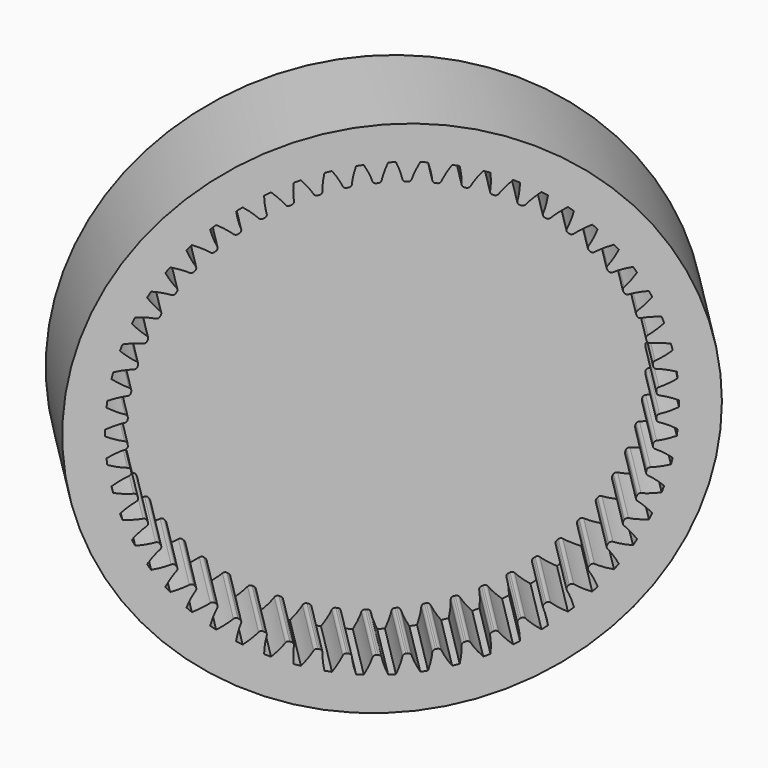
from build123d import *

# Parameters (mm, degrees)
SKETCH032_R             = 20
PAD018_DEPTH            = 6
POCKET010_DEPTH         = 6.001
SKETCH034_R             = 20
PAD019_DEPTH            = 3
SKETCH073_R             = 1.95
PAD049_DEPTH            = 12
BODY015_ROLL_ANGLE      = -90
BODY015_PLACEMENT_ANGLE = 45


with BuildPart() as part:
    # Sketch032 → Pad018 (new body)
    with BuildSketch(Plane.XY):
        Circle(SKETCH032_R)
    extrude(amount=PAD018_DEPTH)

    # InvoluteGear → Pocket010 (cut, through all)
    with BuildSketch(Plane.XY):
        with BuildLine():
            add(Edge.make_bspline(
                [(16.213768, -0.626738), (16.421585, -0.585771), (16.692244, -0.516159), (17.021064, -0.403447), (17.398413, -0.234565)],
                knots=[0, 0, 0, 0, 0, 1, 1, 1, 1, 1], degree=4))
            ThreePointArc((17.398413, -0.234565), (17.399997, 9e-06), (17.398419, 0.234584))
            add(Edge.make_bspline(
                [(17.398419, 0.234584), (17.021064, 0.403447), (16.692244, 0.516159), (16.421585, 0.585771), (16.213768, 0.626738)],
                knots=[0, 0, 0, 0, 0, 1, 1, 1, 1, 1], degree=4))
            ThreePointArc((16.213768, 0.626738), (16.084069, 0.700806), (16.028042, 0.839258))
            ThreePointArc((16.028042, 0.839258), (16.02475, 0.899931), (16.021229, 0.96059))
            ThreePointArc((16.021229, 0.96059), (16.061401, 1.104445), (16.181991, 1.192569))
            add(Edge.make_bspline(
                [(16.181991, 1.192569), (16.383915, 1.256547), (16.645078, 1.356024), (16.95921, 1.504845), (17.315279, 1.714914)],
                knots=[0, 0, 0, 0, 0, 1, 1, 1, 1, 1], degree=4))
            ThreePointArc((17.315279, 1.714914), (17.290589, 1.948191), (17.262756, 2.181114))
            add(Edge.make_bspline(
                [(17.262756, 2.181114), (16.868867, 2.306664), (16.529495, 2.381852), (16.252744, 2.420722), (16.041647, 2.438163)],
                knots=[0, 0, 0, 0, 0, 1, 1, 1, 1, 1], degree=4))
            ThreePointArc((16.041647, 2.438163), (15.90447, 2.497244), (15.833294, 2.628553))
            ThreePointArc((15.833294, 2.628553), (15.82323, 2.688475), (15.812939, 2.748359))
            ThreePointArc((15.812939, 2.748359), (15.836751, 2.895807), (15.946717, 2.996878))
            add(Edge.make_bspline(
                [(15.946717, 2.996878), (16.140208, 3.083062), (16.388591, 3.211156), (16.684085, 3.394212), (17.014394, 3.642827)],
                knots=[0, 0, 0, 0, 0, 1, 1, 1, 1, 1], degree=4))
            ThreePointArc((17.014394, 3.642827), (16.963741, 3.871873), (16.910004, 4.100215))
            add(Edge.make_bspline(
                [(16.910004, 4.100215), (16.504535, 4.180874), (16.158878, 4.217592), (15.879516, 4.225231), (15.667793, 4.218927)],
                knots=[0, 0, 0, 0, 0, 1, 1, 1, 1, 1], degree=4))
            ThreePointArc((15.667793, 4.218927), (15.524864, 4.262277), (15.439433, 4.384791))
            ThreePointArc((15.439433, 4.384791), (15.422723, 4.44321), (15.405792, 4.501565))
            ThreePointArc((15.405792, 4.501565), (15.412946, 4.650752), (15.510904, 4.763501))
            add(Edge.make_bspline(
                [(15.510904, 4.763501), (15.693528, 4.870807), (15.926007, 5.025904), (16.199148, 5.240894), (16.499544, 5.524929)],
                knots=[0, 0, 0, 0, 0, 1, 1, 1, 1, 1], degree=4))
            ThreePointArc((16.499544, 5.524929), (16.423564, 5.746864), (16.344599, 5.967753))
            add(Edge.make_bspline(
                [(16.344599, 5.967753), (15.932648, 6.002508), (15.585054, 6.000293), (15.306593, 5.976605), (15.096907, 5.946636)],
                knots=[0, 0, 0, 0, 0, 1, 1, 1, 1, 1], degree=4))
            ThreePointArc((15.096907, 5.946636), (14.950023, 5.97371), (14.851413, 6.085889))
            ThreePointArc((14.851413, 6.085889), (14.828266, 6.142069), (14.804908, 6.198161))
            ThreePointArc((14.804908, 6.198161), (14.795313, 6.347211), (14.880031, 6.470219))
            add(Edge.make_bspline(
                [(14.880031, 6.470219), (15.049494, 6.597298), (15.263145, 6.77745), (15.510497, 7.02167), (15.777203, 7.337553)],
                knots=[0, 0, 0, 0, 0, 1, 1, 1, 1, 1], degree=4))
            ThreePointArc((15.777203, 7.337553), (15.676852, 7.549584), (15.573651, 7.760244))
            add(Edge.make_bspline(
                [(15.573651, 7.760244), (15.160399, 7.748656), (14.815239, 7.707537), (14.541181, 7.65282), (14.336169, 7.599562)],
                knots=[0, 0, 0, 0, 0, 1, 1, 1, 1, 1], degree=4))
            ThreePointArc((14.336169, 7.599562), (14.187177, 7.61002), (14.076627, 7.710453))
            ThreePointArc((14.076627, 7.710453), (14.047336, 7.763688), (14.017844, 7.816812))
            ThreePointArc((14.017844, 7.816812), (13.991621, 7.963851), (14.062034, 8.09557))
            add(Edge.make_bspline(
                [(14.062034, 8.09557), (14.216203, 8.240824), (14.40834, 8.443765), (14.626793, 8.714144), (14.856454, 9.057902)],
                knots=[0, 0, 0, 0, 0, 1, 1, 1, 1, 1], degree=4))
            ThreePointArc((14.856454, 9.057902), (14.732994, 9.257365), (14.606856, 9.455145))
            add(Edge.make_bspline(
                [(14.606856, 9.455145), (14.1975, 9.39736), (13.859114, 9.317854), (13.592905, 9.232796), (13.395145, 9.156919)],
                knots=[0, 0, 0, 0, 0, 1, 1, 1, 1, 1], degree=4))
            ThreePointArc((13.395145, 9.156919), (13.245919, 9.15063), (13.124819, 9.238053))
            ThreePointArc((13.124819, 9.238053), (13.089752, 9.287674), (13.054497, 9.337162))
            ThreePointArc((13.054497, 9.337162), (13.011977, 9.480341), (13.067199, 9.619115))
            add(Edge.make_bspline(
                [(13.067199, 9.619115), (13.204134, 9.780717), (13.372342, 10.003894), (13.559148, 10.297032), (13.748876, 10.664343)],
                knots=[0, 0, 0, 0, 0, 1, 1, 1, 1, 1], degree=4))
            ThreePointArc((13.748876, 10.664343), (13.60386, 10.848728), (13.456371, 11.031142))
            add(Edge.make_bspline(
                [(13.456371, 11.031142), (13.056058, 10.927887), (12.728702, 10.810993), (12.47369, 10.696665), (12.28567, 10.599122)],
                knots=[0, 0, 0, 0, 0, 1, 1, 1, 1, 1], degree=4))
            ThreePointArc((12.28567, 10.599122), (12.138086, 10.576165), (12.007959, 10.64948))
            ThreePointArc((12.007959, 10.64948), (11.967557, 10.694863), (11.926983, 10.740092))
            ThreePointArc((11.926983, 10.740092), (11.868699, 10.877609), (11.908036, 11.021695))
            add(Edge.make_bspline(
                [(11.908036, 11.021695), (12.026017, 11.197612), (12.168179, 11.438219), (12.320989, 11.75043), (12.468399, 12.136673)],
                knots=[0, 0, 0, 0, 0, 1, 1, 1, 1, 1], degree=4))
            ThreePointArc((12.468399, 12.136673), (12.303649, 12.303663), (12.136664, 12.468416))
            add(Edge.make_bspline(
                [(12.136664, 12.468416), (11.75043, 12.320989), (11.438219, 12.168179), (11.197612, 12.026017), (11.021695, 11.908036)],
                knots=[0, 0, 0, 0, 0, 1, 1, 1, 1, 1], degree=4))
            ThreePointArc((11.021695, 11.908036), (10.87761, 11.868699), (10.740092, 11.926983))
            ThreePointArc((10.740092, 11.926983), (10.694863, 11.967557), (10.64948, 12.007959))
            ThreePointArc((10.64948, 12.007959), (10.576165, 12.138086), (10.599122, 12.285669))
            add(Edge.make_bspline(
                [(10.599122, 12.285669), (10.696665, 12.47369), (10.810993, 12.728702), (10.927887, 13.056058), (11.031124, 13.456378)],
                knots=[0, 0, 0, 0, 0, 1, 1, 1, 1, 1], degree=4))
            ThreePointArc((11.031124, 13.456378), (10.848714, 13.603871), (10.664332, 13.748892))
            add(Edge.make_bspline(
                [(10.664332, 13.748892), (10.297032, 13.559148), (10.003894, 13.372342), (9.780717, 13.204134), (9.619116, 13.067199)],
                knots=[0, 0, 0, 0, 0, 1, 1, 1, 1, 1], degree=4))
            ThreePointArc((9.619116, 13.067199), (9.480341, 13.011977), (9.337162, 13.054497))
            ThreePointArc((9.337162, 13.054497), (9.287674, 13.089752), (9.238053, 13.124819))
            ThreePointArc((9.238053, 13.124819), (9.15063, 13.245919), (9.156919, 13.395145))
            add(Edge.make_bspline(
                [(9.156919, 13.395145), (9.232796, 13.592905), (9.317854, 13.859114), (9.39736, 14.1975), (9.455126, 14.606861)],
                knots=[0, 0, 0, 0, 0, 1, 1, 1, 1, 1], degree=4))
            ThreePointArc((9.455126, 14.606861), (9.257349, 14.733004), (9.057889, 14.856468))
            add(Edge.make_bspline(
                [(9.057889, 14.856468), (8.714144, 14.626793), (8.443765, 14.40834), (8.240824, 14.216203), (8.095571, 14.062035)],
                knots=[0, 0, 0, 0, 0, 1, 1, 1, 1, 1], degree=4))
            ThreePointArc((8.095571, 14.062035), (7.963851, 13.991621), (7.816812, 14.017844))
            ThreePointArc((7.816812, 14.017844), (7.763688, 14.047336), (7.710453, 14.076627))
            ThreePointArc((7.710453, 14.076627), (7.61002, 14.187177), (7.599562, 14.336169))
            add(Edge.make_bspline(
                [(7.599562, 14.336169), (7.65282, 14.541181), (7.707537, 14.815239), (7.748656, 15.160399), (7.760225, 15.573655)],
                knots=[0, 0, 0, 0, 0, 1, 1, 1, 1, 1], degree=4))
            ThreePointArc((7.760225, 15.573655), (7.549567, 15.67686), (7.337538, 15.777216))
            add(Edge.make_bspline(
                [(7.337538, 15.777216), (7.02167, 15.510497), (6.77745, 15.263145), (6.597298, 15.049494), (6.470219, 14.880032)],
                knots=[0, 0, 0, 0, 0, 1, 1, 1, 1, 1], degree=4))
            ThreePointArc((6.470219, 14.880032), (6.347212, 14.795313), (6.198161, 14.804908))
            ThreePointArc((6.198161, 14.804908), (6.142069, 14.828266), (6.085889, 14.851413))
            ThreePointArc((6.085889, 14.851413), (5.97371, 14.950023), (5.946635, 15.096907))
            add(Edge.make_bspline(
                [(5.946635, 15.096907), (5.976605, 15.306593), (6.000293, 15.585054), (6.002508, 15.932648), (5.967734, 16.3446)],
                knots=[0, 0, 0, 0, 0, 1, 1, 1, 1, 1], degree=4))
            ThreePointArc((5.967734, 16.3446), (5.746846, 16.42357), (5.524914, 16.499555))
            add(Edge.make_bspline(
                [(5.524914, 16.499555), (5.240894, 16.199148), (5.025904, 15.926007), (4.870807, 15.693528), (4.763501, 15.510904)],
                knots=[0, 0, 0, 0, 0, 1, 1, 1, 1, 1], degree=4))
            ThreePointArc((4.763501, 15.510904), (4.650752, 15.412946), (4.501565, 15.405792))
            ThreePointArc((4.501565, 15.405792), (4.44321, 15.422723), (4.384791, 15.439433))
            ThreePointArc((4.384791, 15.439433), (4.262277, 15.524863), (4.218927, 15.667792))
            add(Edge.make_bspline(
                [(4.218927, 15.667792), (4.225231, 15.879516), (4.217592, 16.158878), (4.180874, 16.504535), (4.100195, 16.910003)],
                knots=[0, 0, 0, 0, 0, 1, 1, 1, 1, 1], degree=4))
            ThreePointArc((4.100195, 16.910003), (3.871855, 16.963745), (3.64281, 17.014404))
            add(Edge.make_bspline(
                [(3.64281, 17.014404), (3.394212, 16.684085), (3.211156, 16.388591), (3.083062, 16.140208), (2.996879, 15.946717)],
                knots=[0, 0, 0, 0, 0, 1, 1, 1, 1, 1], degree=4))
            ThreePointArc((2.996879, 15.946717), (2.895807, 15.836752), (2.748359, 15.812939))
            ThreePointArc((2.748359, 15.812939), (2.688475, 15.82323), (2.628553, 15.833294))
            ThreePointArc((2.628553, 15.833294), (2.497244, 15.90447), (2.438163, 16.041647))
            add(Edge.make_bspline(
                [(2.438163, 16.041647), (2.420722, 16.252744), (2.381852, 16.529495), (2.306664, 16.868867), (2.181094, 17.262753)],
                knots=[0, 0, 0, 0, 0, 1, 1, 1, 1, 1], degree=4))
            ThreePointArc((2.181094, 17.262753), (1.948172, 17.290591), (1.714896, 17.315286))
            add(Edge.make_bspline(
                [(1.714896, 17.315286), (1.504845, 16.95921), (1.356024, 16.645078), (1.256547, 16.383915), (1.192569, 16.181992)],
                knots=[0, 0, 0, 0, 0, 1, 1, 1, 1, 1], degree=4))
            ThreePointArc((1.192569, 16.181992), (1.104445, 16.061401), (0.96059, 16.021229))
            ThreePointArc((0.96059, 16.021229), (0.899931, 16.02475), (0.839258, 16.028042))
            ThreePointArc((0.839258, 16.028042), (0.700806, 16.084069), (0.626738, 16.213768))
            add(Edge.make_bspline(
                [(0.626738, 16.213768), (0.585771, 16.421585), (0.516159, 16.692244), (0.403447, 17.021064), (0.234565, 17.398413)],
                knots=[0, 0, 0, 0, 0, 1, 1, 1, 1, 1], degree=4))
            ThreePointArc((0.234565, 17.398413), (-9e-06, 17.399997), (-0.234584, 17.398419))
            add(Edge.make_bspline(
                [(-0.234584, 17.398419), (-0.403447, 17.021064), (-0.516159, 16.692244), (-0.585771, 16.421585), (-0.626738, 16.213768)],
                knots=[0, 0, 0, 0, 0, 1, 1, 1, 1, 1], degree=4))
            ThreePointArc((-0.626738, 16.213768), (-0.700806, 16.084069), (-0.839258, 16.028042))
            ThreePointArc((-0.839258, 16.028042), (-0.899931, 16.02475), (-0.96059, 16.021229))
            ThreePointArc((-0.96059, 16.021229), (-1.104445, 16.061401), (-1.192569, 16.181991))
            add(Edge.make_bspline(
                [(-1.192569, 16.181991), (-1.256547, 16.383915), (-1.356024, 16.645078), (-1.504845, 16.95921), (-1.714914, 17.315279)],
                knots=[0, 0, 0, 0, 0, 1, 1, 1, 1, 1], degree=4))
            ThreePointArc((-1.714914, 17.315279), (-1.948191, 17.290589), (-2.181114, 17.262756))
            add(Edge.make_bspline(
                [(-2.181114, 17.262756), (-2.306664, 16.868867), (-2.381852, 16.529495), (-2.420722, 16.252744), (-2.438163, 16.041647)],
                knots=[0, 0, 0, 0, 0, 1, 1, 1, 1, 1], degree=4))
            ThreePointArc((-2.438163, 16.041647), (-2.497244, 15.90447), (-2.628553, 15.833294))
            ThreePointArc((-2.628553, 15.833294), (-2.688475, 15.82323), (-2.748359, 15.812939))
            ThreePointArc((-2.748359, 15.812939), (-2.895807, 15.836751), (-2.996878, 15.946717))
            add(Edge.make_bspline(
                [(-2.996878, 15.946717), (-3.083062, 16.140208), (-3.211156, 16.388591), (-3.394212, 16.684085), (-3.642827, 17.014394)],
                knots=[0, 0, 0, 0, 0, 1, 1, 1, 1, 1], degree=4))
            ThreePointArc((-3.642827, 17.014394), (-3.871873, 16.963741), (-4.100215, 16.910004))
            add(Edge.make_bspline(
                [(-4.100215, 16.910004), (-4.180874, 16.504535), (-4.217592, 16.158878), (-4.225231, 15.879516), (-4.218927, 15.667793)],
                knots=[0, 0, 0, 0, 0, 1, 1, 1, 1, 1], degree=4))
            ThreePointArc((-4.218927, 15.667793), (-4.262277, 15.524864), (-4.384791, 15.439433))
            ThreePointArc((-4.384791, 15.439433), (-4.44321, 15.422723), (-4.501565, 15.405792))
            ThreePointArc((-4.501565, 15.405792), (-4.650752, 15.412946), (-4.763501, 15.510904))
            add(Edge.make_bspline(
                [(-4.763501, 15.510904), (-4.870807, 15.693528), (-5.025904, 15.926007), (-5.240894, 16.199148), (-5.524929, 16.499544)],
                knots=[0, 0, 0, 0, 0, 1, 1, 1, 1, 1], degree=4))
            ThreePointArc((-5.524929, 16.499544), (-5.746864, 16.423564), (-5.967753, 16.344599))
            add(Edge.make_bspline(
                [(-5.967753, 16.344599), (-6.002508, 15.932648), (-6.000293, 15.585054), (-5.976605, 15.306593), (-5.946636, 15.096907)],
                knots=[0, 0, 0, 0, 0, 1, 1, 1, 1, 1], degree=4))
            ThreePointArc((-5.946636, 15.096907), (-5.97371, 14.950023), (-6.085889, 14.851413))
            ThreePointArc((-6.085889, 14.851413), (-6.142069, 14.828266), (-6.198161, 14.804908))
            ThreePointArc((-6.198161, 14.804908), (-6.347211, 14.795313), (-6.470219, 14.880031))
            add(Edge.make_bspline(
                [(-6.470219, 14.880031), (-6.597298, 15.049494), (-6.77745, 15.263145), (-7.02167, 15.510497), (-7.337553, 15.777203)],
                knots=[0, 0, 0, 0, 0, 1, 1, 1, 1, 1], degree=4))
            ThreePointArc((-7.337553, 15.777203), (-7.549584, 15.676852), (-7.760244, 15.573651))
            add(Edge.make_bspline(
                [(-7.760244, 15.573651), (-7.748656, 15.160399), (-7.707537, 14.815239), (-7.65282, 14.541181), (-7.599562, 14.336169)],
                knots=[0, 0, 0, 0, 0, 1, 1, 1, 1, 1], degree=4))
            ThreePointArc((-7.599562, 14.336169), (-7.61002, 14.187177), (-7.710453, 14.076627))
            ThreePointArc((-7.710453, 14.076627), (-7.763688, 14.047336), (-7.816812, 14.017844))
            ThreePointArc((-7.816812, 14.017844), (-7.963851, 13.991621), (-8.09557, 14.062034))
            add(Edge.make_bspline(
                [(-8.09557, 14.062034), (-8.240824, 14.216203), (-8.443765, 14.40834), (-8.714144, 14.626793), (-9.057902, 14.856454)],
                knots=[0, 0, 0, 0, 0, 1, 1, 1, 1, 1], degree=4))
            ThreePointArc((-9.057902, 14.856454), (-9.257365, 14.732994), (-9.455145, 14.606856))
            add(Edge.make_bspline(
                [(-9.455145, 14.606856), (-9.39736, 14.1975), (-9.317854, 13.859114), (-9.232796, 13.592905), (-9.156919, 13.395145)],
                knots=[0, 0, 0, 0, 0, 1, 1, 1, 1, 1], degree=4))
            ThreePointArc((-9.156919, 13.395145), (-9.15063, 13.245919), (-9.238053, 13.124819))
            ThreePointArc((-9.238053, 13.124819), (-9.287674, 13.089752), (-9.337162, 13.054497))
            ThreePointArc((-9.337162, 13.054497), (-9.480341, 13.011977), (-9.619115, 13.067199))
            add(Edge.make_bspline(
                [(-9.619115, 13.067199), (-9.780717, 13.204134), (-10.003894, 13.372342), (-10.297032, 13.559148), (-10.664343, 13.748876)],
                knots=[0, 0, 0, 0, 0, 1, 1, 1, 1, 1], degree=4))
            ThreePointArc((-10.664343, 13.748876), (-10.848728, 13.60386), (-11.031142, 13.456371))
            add(Edge.make_bspline(
                [(-11.031142, 13.456371), (-10.927887, 13.056058), (-10.810993, 12.728702), (-10.696665, 12.47369), (-10.599122, 12.28567)],
                knots=[0, 0, 0, 0, 0, 1, 1, 1, 1, 1], degree=4))
            ThreePointArc((-10.599122, 12.28567), (-10.576165, 12.138086), (-10.64948, 12.007959))
            ThreePointArc((-10.64948, 12.007959), (-10.694863, 11.967557), (-10.740092, 11.926983))
            ThreePointArc((-10.740092, 11.926983), (-10.877609, 11.868699), (-11.021695, 11.908036))
            add(Edge.make_bspline(
                [(-11.021695, 11.908036), (-11.197612, 12.026017), (-11.438219, 12.168179), (-11.75043, 12.320989), (-12.136673, 12.468399)],
                knots=[0, 0, 0, 0, 0, 1, 1, 1, 1, 1], degree=4))
            ThreePointArc((-12.136673, 12.468399), (-12.303663, 12.303649), (-12.468416, 12.136664))
            add(Edge.make_bspline(
                [(-12.468416, 12.136664), (-12.320989, 11.75043), (-12.168179, 11.438219), (-12.026017, 11.197612), (-11.908036, 11.021695)],
                knots=[0, 0, 0, 0, 0, 1, 1, 1, 1, 1], degree=4))
            ThreePointArc((-11.908036, 11.021695), (-11.868699, 10.87761), (-11.926983, 10.740092))
            ThreePointArc((-11.926983, 10.740092), (-11.967557, 10.694863), (-12.007959, 10.64948))
            ThreePointArc((-12.007959, 10.64948), (-12.138086, 10.576165), (-12.285669, 10.599122))
            add(Edge.make_bspline(
                [(-12.285669, 10.599122), (-12.47369, 10.696665), (-12.728702, 10.810993), (-13.056058, 10.927887), (-13.456378, 11.031124)],
                knots=[0, 0, 0, 0, 0, 1, 1, 1, 1, 1], degree=4))
            ThreePointArc((-13.456378, 11.031124), (-13.603871, 10.848714), (-13.748892, 10.664332))
            add(Edge.make_bspline(
                [(-13.748892, 10.664332), (-13.559148, 10.297032), (-13.372342, 10.003894), (-13.204134, 9.780717), (-13.067199, 9.619116)],
                knots=[0, 0, 0, 0, 0, 1, 1, 1, 1, 1], degree=4))
            ThreePointArc((-13.067199, 9.619116), (-13.011977, 9.480341), (-13.054497, 9.337162))
            ThreePointArc((-13.054497, 9.337162), (-13.089752, 9.287674), (-13.124819, 9.238053))
            ThreePointArc((-13.124819, 9.238053), (-13.245919, 9.15063), (-13.395145, 9.156919))
            add(Edge.make_bspline(
                [(-13.395145, 9.156919), (-13.592905, 9.232796), (-13.859114, 9.317854), (-14.1975, 9.39736), (-14.606861, 9.455126)],
                knots=[0, 0, 0, 0, 0, 1, 1, 1, 1, 1], degree=4))
            ThreePointArc((-14.606861, 9.455126), (-14.733004, 9.257349), (-14.856468, 9.057889))
            add(Edge.make_bspline(
                [(-14.856468, 9.057889), (-14.626793, 8.714144), (-14.40834, 8.443765), (-14.216203, 8.240824), (-14.062035, 8.095571)],
                knots=[0, 0, 0, 0, 0, 1, 1, 1, 1, 1], degree=4))
            ThreePointArc((-14.062035, 8.095571), (-13.991621, 7.963851), (-14.017844, 7.816812))
            ThreePointArc((-14.017844, 7.816812), (-14.047336, 7.763688), (-14.076627, 7.710453))
            ThreePointArc((-14.076627, 7.710453), (-14.187177, 7.61002), (-14.336169, 7.599562))
            add(Edge.make_bspline(
                [(-14.336169, 7.599562), (-14.541181, 7.65282), (-14.815239, 7.707537), (-15.160399, 7.748656), (-15.573655, 7.760225)],
                knots=[0, 0, 0, 0, 0, 1, 1, 1, 1, 1], degree=4))
            ThreePointArc((-15.573655, 7.760225), (-15.67686, 7.549567), (-15.777216, 7.337538))
            add(Edge.make_bspline(
                [(-15.777216, 7.337538), (-15.510497, 7.02167), (-15.263145, 6.77745), (-15.049494, 6.597298), (-14.880032, 6.470219)],
                knots=[0, 0, 0, 0, 0, 1, 1, 1, 1, 1], degree=4))
            ThreePointArc((-14.880032, 6.470219), (-14.795313, 6.347212), (-14.804908, 6.198161))
            ThreePointArc((-14.804908, 6.198161), (-14.828266, 6.142069), (-14.851413, 6.085889))
            ThreePointArc((-14.851413, 6.085889), (-14.950023, 5.97371), (-15.096907, 5.946635))
            add(Edge.make_bspline(
                [(-15.096907, 5.946635), (-15.306593, 5.976605), (-15.585054, 6.000293), (-15.932648, 6.002508), (-16.3446, 5.967734)],
                knots=[0, 0, 0, 0, 0, 1, 1, 1, 1, 1], degree=4))
            ThreePointArc((-16.3446, 5.967734), (-16.42357, 5.746846), (-16.499555, 5.524914))
            add(Edge.make_bspline(
                [(-16.499555, 5.524914), (-16.199148, 5.240894), (-15.926007, 5.025904), (-15.693528, 4.870807), (-15.510904, 4.763501)],
                knots=[0, 0, 0, 0, 0, 1, 1, 1, 1, 1], degree=4))
            ThreePointArc((-15.510904, 4.763501), (-15.412946, 4.650752), (-15.405792, 4.501565))
            ThreePointArc((-15.405792, 4.501565), (-15.422723, 4.44321), (-15.439433, 4.384791))
            ThreePointArc((-15.439433, 4.384791), (-15.524863, 4.262277), (-15.667792, 4.218927))
            add(Edge.make_bspline(
                [(-15.667792, 4.218927), (-15.879516, 4.225231), (-16.158878, 4.217592), (-16.504535, 4.180874), (-16.910003, 4.100195)],
                knots=[0, 0, 0, 0, 0, 1, 1, 1, 1, 1], degree=4))
            ThreePointArc((-16.910003, 4.100195), (-16.963745, 3.871855), (-17.014404, 3.64281))
            add(Edge.make_bspline(
                [(-17.014404, 3.64281), (-16.684085, 3.394212), (-16.388591, 3.211156), (-16.140208, 3.083062), (-15.946717, 2.996879)],
                knots=[0, 0, 0, 0, 0, 1, 1, 1, 1, 1], degree=4))
            ThreePointArc((-15.946717, 2.996879), (-15.836752, 2.895807), (-15.812939, 2.748359))
            ThreePointArc((-15.812939, 2.748359), (-15.82323, 2.688475), (-15.833294, 2.628553))
            ThreePointArc((-15.833294, 2.628553), (-15.90447, 2.497244), (-16.041647, 2.438163))
            add(Edge.make_bspline(
                [(-16.041647, 2.438163), (-16.252744, 2.420722), (-16.529495, 2.381852), (-16.868867, 2.306664), (-17.262753, 2.181094)],
                knots=[0, 0, 0, 0, 0, 1, 1, 1, 1, 1], degree=4))
            ThreePointArc((-17.262753, 2.181094), (-17.290591, 1.948172), (-17.315286, 1.714896))
            add(Edge.make_bspline(
                [(-17.315286, 1.714896), (-16.95921, 1.504845), (-16.645078, 1.356024), (-16.383915, 1.256547), (-16.181992, 1.192569)],
                knots=[0, 0, 0, 0, 0, 1, 1, 1, 1, 1], degree=4))
            ThreePointArc((-16.181992, 1.192569), (-16.061401, 1.104445), (-16.021229, 0.96059))
            ThreePointArc((-16.021229, 0.96059), (-16.02475, 0.899931), (-16.028042, 0.839258))
            ThreePointArc((-16.028042, 0.839258), (-16.084069, 0.700806), (-16.213768, 0.626738))
            add(Edge.make_bspline(
                [(-16.213768, 0.626738), (-16.421585, 0.585771), (-16.692244, 0.516159), (-17.021064, 0.403447), (-17.398413, 0.234565)],
                knots=[0, 0, 0, 0, 0, 1, 1, 1, 1, 1], degree=4))
            ThreePointArc((-17.398413, 0.234565), (-17.399997, -9e-06), (-17.398419, -0.234584))
            add(Edge.make_bspline(
                [(-17.398419, -0.234584), (-17.021064, -0.403447), (-16.692244, -0.516159), (-16.421585, -0.585771), (-16.213768, -0.626738)],
                knots=[0, 0, 0, 0, 0, 1, 1, 1, 1, 1], degree=4))
            ThreePointArc((-16.213768, -0.626738), (-16.084069, -0.700806), (-16.028042, -0.839258))
            ThreePointArc((-16.028042, -0.839258), (-16.02475, -0.899931), (-16.021229, -0.96059))
            ThreePointArc((-16.021229, -0.96059), (-16.061401, -1.104445), (-16.181991, -1.192569))
            add(Edge.make_bspline(
                [(-16.181991, -1.192569), (-16.383915, -1.256547), (-16.645078, -1.356024), (-16.95921, -1.504845), (-17.315279, -1.714914)],
                knots=[0, 0, 0, 0, 0, 1, 1, 1, 1, 1], degree=4))
            ThreePointArc((-17.315279, -1.714914), (-17.290589, -1.948191), (-17.262756, -2.181114))
            add(Edge.make_bspline(
                [(-17.262756, -2.181114), (-16.868867, -2.306664), (-16.529495, -2.381852), (-16.252744, -2.420722), (-16.041647, -2.438163)],
                knots=[0, 0, 0, 0, 0, 1, 1, 1, 1, 1], degree=4))
            ThreePointArc((-16.041647, -2.438163), (-15.90447, -2.497244), (-15.833294, -2.628553))
            ThreePointArc((-15.833294, -2.628553), (-15.82323, -2.688475), (-15.812939, -2.748359))
            ThreePointArc((-15.812939, -2.748359), (-15.836751, -2.895807), (-15.946717, -2.996878))
            add(Edge.make_bspline(
                [(-15.946717, -2.996878), (-16.140208, -3.083062), (-16.388591, -3.211156), (-16.684085, -3.394212), (-17.014394, -3.642827)],
                knots=[0, 0, 0, 0, 0, 1, 1, 1, 1, 1], degree=4))
            ThreePointArc((-17.014394, -3.642827), (-16.963741, -3.871873), (-16.910004, -4.100215))
            add(Edge.make_bspline(
                [(-16.910004, -4.100215), (-16.504535, -4.180874), (-16.158878, -4.217592), (-15.879516, -4.225231), (-15.667793, -4.218927)],
                knots=[0, 0, 0, 0, 0, 1, 1, 1, 1, 1], degree=4))
            ThreePointArc((-15.667793, -4.218927), (-15.524864, -4.262277), (-15.439433, -4.384791))
            ThreePointArc((-15.439433, -4.384791), (-15.422723, -4.44321), (-15.405792, -4.501565))
            ThreePointArc((-15.405792, -4.501565), (-15.412946, -4.650752), (-15.510904, -4.763501))
            add(Edge.make_bspline(
                [(-15.510904, -4.763501), (-15.693528, -4.870807), (-15.926007, -5.025904), (-16.199148, -5.240894), (-16.499544, -5.524929)],
                knots=[0, 0, 0, 0, 0, 1, 1, 1, 1, 1], degree=4))
            ThreePointArc((-16.499544, -5.524929), (-16.423564, -5.746864), (-16.344599, -5.967753))
            add(Edge.make_bspline(
                [(-16.344599, -5.967753), (-15.932648, -6.002508), (-15.585054, -6.000293), (-15.306593, -5.976605), (-15.096907, -5.946636)],
                knots=[0, 0, 0, 0, 0, 1, 1, 1, 1, 1], degree=4))
            ThreePointArc((-15.096907, -5.946636), (-14.950023, -5.97371), (-14.851413, -6.085889))
            ThreePointArc((-14.851413, -6.085889), (-14.828266, -6.142069), (-14.804908, -6.198161))
            ThreePointArc((-14.804908, -6.198161), (-14.795313, -6.347211), (-14.880031, -6.470219))
            add(Edge.make_bspline(
                [(-14.880031, -6.470219), (-15.049494, -6.597298), (-15.263145, -6.77745), (-15.510497, -7.02167), (-15.777203, -7.337553)],
                knots=[0, 0, 0, 0, 0, 1, 1, 1, 1, 1], degree=4))
            ThreePointArc((-15.777203, -7.337553), (-15.676852, -7.549584), (-15.573651, -7.760244))
            add(Edge.make_bspline(
                [(-15.573651, -7.760244), (-15.160399, -7.748656), (-14.815239, -7.707537), (-14.541181, -7.65282), (-14.336169, -7.599562)],
                knots=[0, 0, 0, 0, 0, 1, 1, 1, 1, 1], degree=4))
            ThreePointArc((-14.336169, -7.599562), (-14.187177, -7.61002), (-14.076627, -7.710453))
            ThreePointArc((-14.076627, -7.710453), (-14.047336, -7.763688), (-14.017844, -7.816812))
            ThreePointArc((-14.017844, -7.816812), (-13.991621, -7.963851), (-14.062034, -8.09557))
            add(Edge.make_bspline(
                [(-14.062034, -8.09557), (-14.216203, -8.240824), (-14.40834, -8.443765), (-14.626793, -8.714144), (-14.856454, -9.057902)],
                knots=[0, 0, 0, 0, 0, 1, 1, 1, 1, 1], degree=4))
            ThreePointArc((-14.856454, -9.057902), (-14.732994, -9.257365), (-14.606856, -9.455145))
            add(Edge.make_bspline(
                [(-14.606856, -9.455145), (-14.1975, -9.39736), (-13.859114, -9.317854), (-13.592905, -9.232796), (-13.395145, -9.156919)],
                knots=[0, 0, 0, 0, 0, 1, 1, 1, 1, 1], degree=4))
            ThreePointArc((-13.395145, -9.156919), (-13.245919, -9.15063), (-13.124819, -9.238053))
            ThreePointArc((-13.124819, -9.238053), (-13.089752, -9.287674), (-13.054497, -9.337162))
            ThreePointArc((-13.054497, -9.337162), (-13.011977, -9.480341), (-13.067199, -9.619115))
            add(Edge.make_bspline(
                [(-13.067199, -9.619115), (-13.204134, -9.780717), (-13.372342, -10.003894), (-13.559148, -10.297032), (-13.748876, -10.664343)],
                knots=[0, 0, 0, 0, 0, 1, 1, 1, 1, 1], degree=4))
            ThreePointArc((-13.748876, -10.664343), (-13.60386, -10.848728), (-13.456371, -11.031142))
            add(Edge.make_bspline(
                [(-13.456371, -11.031142), (-13.056058, -10.927887), (-12.728702, -10.810993), (-12.47369, -10.696665), (-12.28567, -10.599122)],
                knots=[0, 0, 0, 0, 0, 1, 1, 1, 1, 1], degree=4))
            ThreePointArc((-12.28567, -10.599122), (-12.138086, -10.576165), (-12.007959, -10.64948))
            ThreePointArc((-12.007959, -10.64948), (-11.967557, -10.694863), (-11.926983, -10.740092))
            ThreePointArc((-11.926983, -10.740092), (-11.868699, -10.877609), (-11.908036, -11.021695))
            add(Edge.make_bspline(
                [(-11.908036, -11.021695), (-12.026017, -11.197612), (-12.168179, -11.438219), (-12.320989, -11.75043), (-12.468399, -12.136673)],
                knots=[0, 0, 0, 0, 0, 1, 1, 1, 1, 1], degree=4))
            ThreePointArc((-12.468399, -12.136673), (-12.303649, -12.303663), (-12.136664, -12.468416))
            add(Edge.make_bspline(
                [(-12.136664, -12.468416), (-11.75043, -12.320989), (-11.438219, -12.168179), (-11.197612, -12.026017), (-11.021695, -11.908036)],
                knots=[0, 0, 0, 0, 0, 1, 1, 1, 1, 1], degree=4))
            ThreePointArc((-11.021695, -11.908036), (-10.87761, -11.868699), (-10.740092, -11.926983))
            ThreePointArc((-10.740092, -11.926983), (-10.694863, -11.967557), (-10.64948, -12.007959))
            ThreePointArc((-10.64948, -12.007959), (-10.576165, -12.138086), (-10.599122, -12.285669))
            add(Edge.make_bspline(
                [(-10.599122, -12.285669), (-10.696665, -12.47369), (-10.810993, -12.728702), (-10.927887, -13.056058), (-11.031124, -13.456378)],
                knots=[0, 0, 0, 0, 0, 1, 1, 1, 1, 1], degree=4))
            ThreePointArc((-11.031124, -13.456378), (-10.848714, -13.603871), (-10.664332, -13.748892))
            add(Edge.make_bspline(
                [(-10.664332, -13.748892), (-10.297032, -13.559148), (-10.003894, -13.372342), (-9.780717, -13.204134), (-9.619116, -13.067199)],
                knots=[0, 0, 0, 0, 0, 1, 1, 1, 1, 1], degree=4))
            ThreePointArc((-9.619116, -13.067199), (-9.480341, -13.011977), (-9.337162, -13.054497))
            ThreePointArc((-9.337162, -13.054497), (-9.287674, -13.089752), (-9.238053, -13.124819))
            ThreePointArc((-9.238053, -13.124819), (-9.15063, -13.245919), (-9.156919, -13.395145))
            add(Edge.make_bspline(
                [(-9.156919, -13.395145), (-9.232796, -13.592905), (-9.317854, -13.859114), (-9.39736, -14.1975), (-9.455126, -14.606861)],
                knots=[0, 0, 0, 0, 0, 1, 1, 1, 1, 1], degree=4))
            ThreePointArc((-9.455126, -14.606861), (-9.257349, -14.733004), (-9.057889, -14.856468))
            add(Edge.make_bspline(
                [(-9.057889, -14.856468), (-8.714144, -14.626793), (-8.443765, -14.40834), (-8.240824, -14.216203), (-8.095571, -14.062035)],
                knots=[0, 0, 0, 0, 0, 1, 1, 1, 1, 1], degree=4))
            ThreePointArc((-8.095571, -14.062035), (-7.963851, -13.991621), (-7.816812, -14.017844))
            ThreePointArc((-7.816812, -14.017844), (-7.763688, -14.047336), (-7.710453, -14.076627))
            ThreePointArc((-7.710453, -14.076627), (-7.61002, -14.187177), (-7.599562, -14.336169))
            add(Edge.make_bspline(
                [(-7.599562, -14.336169), (-7.65282, -14.541181), (-7.707537, -14.815239), (-7.748656, -15.160399), (-7.760225, -15.573655)],
                knots=[0, 0, 0, 0, 0, 1, 1, 1, 1, 1], degree=4))
            ThreePointArc((-7.760225, -15.573655), (-7.549567, -15.67686), (-7.337538, -15.777216))
            add(Edge.make_bspline(
                [(-7.337538, -15.777216), (-7.02167, -15.510497), (-6.77745, -15.263145), (-6.597298, -15.049494), (-6.470219, -14.880032)],
                knots=[0, 0, 0, 0, 0, 1, 1, 1, 1, 1], degree=4))
            ThreePointArc((-6.470219, -14.880032), (-6.347212, -14.795313), (-6.198161, -14.804908))
            ThreePointArc((-6.198161, -14.804908), (-6.142069, -14.828266), (-6.085889, -14.851413))
            ThreePointArc((-6.085889, -14.851413), (-5.97371, -14.950023), (-5.946635, -15.096907))
            add(Edge.make_bspline(
                [(-5.946635, -15.096907), (-5.976605, -15.306593), (-6.000293, -15.585054), (-6.002508, -15.932648), (-5.967734, -16.3446)],
                knots=[0, 0, 0, 0, 0, 1, 1, 1, 1, 1], degree=4))
            ThreePointArc((-5.967734, -16.3446), (-5.746846, -16.42357), (-5.524914, -16.499555))
            add(Edge.make_bspline(
                [(-5.524914, -16.499555), (-5.240894, -16.199148), (-5.025904, -15.926007), (-4.870807, -15.693528), (-4.763501, -15.510904)],
                knots=[0, 0, 0, 0, 0, 1, 1, 1, 1, 1], degree=4))
            ThreePointArc((-4.763501, -15.510904), (-4.650752, -15.412946), (-4.501565, -15.405792))
            ThreePointArc((-4.501565, -15.405792), (-4.44321, -15.422723), (-4.384791, -15.439433))
            ThreePointArc((-4.384791, -15.439433), (-4.262277, -15.524863), (-4.218927, -15.667792))
            add(Edge.make_bspline(
                [(-4.218927, -15.667792), (-4.225231, -15.879516), (-4.217592, -16.158878), (-4.180874, -16.504535), (-4.100195, -16.910003)],
                knots=[0, 0, 0, 0, 0, 1, 1, 1, 1, 1], degree=4))
            ThreePointArc((-4.100195, -16.910003), (-3.871855, -16.963745), (-3.64281, -17.014404))
            add(Edge.make_bspline(
                [(-3.64281, -17.014404), (-3.394212, -16.684085), (-3.211156, -16.388591), (-3.083062, -16.140208), (-2.996879, -15.946717)],
                knots=[0, 0, 0, 0, 0, 1, 1, 1, 1, 1], degree=4))
            ThreePointArc((-2.996879, -15.946717), (-2.895807, -15.836752), (-2.748359, -15.812939))
            ThreePointArc((-2.748359, -15.812939), (-2.688475, -15.82323), (-2.628553, -15.833294))
            ThreePointArc((-2.628553, -15.833294), (-2.497244, -15.90447), (-2.438163, -16.041647))
            add(Edge.make_bspline(
                [(-2.438163, -16.041647), (-2.420722, -16.252744), (-2.381852, -16.529495), (-2.306664, -16.868867), (-2.181094, -17.262753)],
                knots=[0, 0, 0, 0, 0, 1, 1, 1, 1, 1], degree=4))
            ThreePointArc((-2.181094, -17.262753), (-1.948172, -17.290591), (-1.714896, -17.315286))
            add(Edge.make_bspline(
                [(-1.714896, -17.315286), (-1.504845, -16.95921), (-1.356024, -16.645078), (-1.256547, -16.383915), (-1.192569, -16.181992)],
                knots=[0, 0, 0, 0, 0, 1, 1, 1, 1, 1], degree=4))
            ThreePointArc((-1.192569, -16.181992), (-1.104445, -16.061401), (-0.96059, -16.021229))
            ThreePointArc((-0.96059, -16.021229), (-0.899931, -16.02475), (-0.839258, -16.028042))
            ThreePointArc((-0.839258, -16.028042), (-0.700806, -16.084069), (-0.626738, -16.213768))
            add(Edge.make_bspline(
                [(-0.626738, -16.213768), (-0.585771, -16.421585), (-0.516159, -16.692244), (-0.403447, -17.021064), (-0.234565, -17.398413)],
                knots=[0, 0, 0, 0, 0, 1, 1, 1, 1, 1], degree=4))
            ThreePointArc((-0.234565, -17.398413), (9e-06, -17.399997), (0.234584, -17.398419))
            add(Edge.make_bspline(
                [(0.234584, -17.398419), (0.403447, -17.021064), (0.516159, -16.692244), (0.585771, -16.421585), (0.626738, -16.213768)],
                knots=[0, 0, 0, 0, 0, 1, 1, 1, 1, 1], degree=4))
            ThreePointArc((0.626738, -16.213768), (0.700806, -16.084069), (0.839258, -16.028042))
            ThreePointArc((0.839258, -16.028042), (0.899931, -16.02475), (0.96059, -16.021229))
            ThreePointArc((0.96059, -16.021229), (1.104445, -16.061401), (1.192569, -16.181991))
            add(Edge.make_bspline(
                [(1.192569, -16.181991), (1.256547, -16.383915), (1.356024, -16.645078), (1.504845, -16.95921), (1.714914, -17.315279)],
                knots=[0, 0, 0, 0, 0, 1, 1, 1, 1, 1], degree=4))
            ThreePointArc((1.714914, -17.315279), (1.948191, -17.290589), (2.181114, -17.262756))
            add(Edge.make_bspline(
                [(2.181114, -17.262756), (2.306664, -16.868867), (2.381852, -16.529495), (2.420722, -16.252744), (2.438163, -16.041647)],
                knots=[0, 0, 0, 0, 0, 1, 1, 1, 1, 1], degree=4))
            ThreePointArc((2.438163, -16.041647), (2.497244, -15.90447), (2.628553, -15.833294))
            ThreePointArc((2.628553, -15.833294), (2.688475, -15.82323), (2.748359, -15.812939))
            ThreePointArc((2.748359, -15.812939), (2.895807, -15.836751), (2.996878, -15.946717))
            add(Edge.make_bspline(
                [(2.996878, -15.946717), (3.083062, -16.140208), (3.211156, -16.388591), (3.394212, -16.684085), (3.642827, -17.014394)],
                knots=[0, 0, 0, 0, 0, 1, 1, 1, 1, 1], degree=4))
            ThreePointArc((3.642827, -17.014394), (3.871873, -16.963741), (4.100215, -16.910004))
            add(Edge.make_bspline(
                [(4.100215, -16.910004), (4.180874, -16.504535), (4.217592, -16.158878), (4.225231, -15.879516), (4.218927, -15.667793)],
                knots=[0, 0, 0, 0, 0, 1, 1, 1, 1, 1], degree=4))
            ThreePointArc((4.218927, -15.667793), (4.262277, -15.524864), (4.384791, -15.439433))
            ThreePointArc((4.384791, -15.439433), (4.44321, -15.422723), (4.501565, -15.405792))
            ThreePointArc((4.501565, -15.405792), (4.650752, -15.412946), (4.763501, -15.510904))
            add(Edge.make_bspline(
                [(4.763501, -15.510904), (4.870807, -15.693528), (5.025904, -15.926007), (5.240894, -16.199148), (5.524929, -16.499544)],
                knots=[0, 0, 0, 0, 0, 1, 1, 1, 1, 1], degree=4))
            ThreePointArc((5.524929, -16.499544), (5.746864, -16.423564), (5.967753, -16.344599))
            add(Edge.make_bspline(
                [(5.967753, -16.344599), (6.002508, -15.932648), (6.000293, -15.585054), (5.976605, -15.306593), (5.946636, -15.096907)],
                knots=[0, 0, 0, 0, 0, 1, 1, 1, 1, 1], degree=4))
            ThreePointArc((5.946636, -15.096907), (5.97371, -14.950023), (6.085889, -14.851413))
            ThreePointArc((6.085889, -14.851413), (6.142069, -14.828266), (6.198161, -14.804908))
            ThreePointArc((6.198161, -14.804908), (6.347211, -14.795313), (6.470219, -14.880031))
            add(Edge.make_bspline(
                [(6.470219, -14.880031), (6.597298, -15.049494), (6.77745, -15.263145), (7.02167, -15.510497), (7.337553, -15.777203)],
                knots=[0, 0, 0, 0, 0, 1, 1, 1, 1, 1], degree=4))
            ThreePointArc((7.337553, -15.777203), (7.549584, -15.676852), (7.760244, -15.573651))
            add(Edge.make_bspline(
                [(7.760244, -15.573651), (7.748656, -15.160399), (7.707537, -14.815239), (7.65282, -14.541181), (7.599562, -14.336169)],
                knots=[0, 0, 0, 0, 0, 1, 1, 1, 1, 1], degree=4))
            ThreePointArc((7.599562, -14.336169), (7.61002, -14.187177), (7.710453, -14.076627))
            ThreePointArc((7.710453, -14.076627), (7.763688, -14.047336), (7.816812, -14.017844))
            ThreePointArc((7.816812, -14.017844), (7.963851, -13.991621), (8.09557, -14.062034))
            add(Edge.make_bspline(
                [(8.09557, -14.062034), (8.240824, -14.216203), (8.443765, -14.40834), (8.714144, -14.626793), (9.057902, -14.856454)],
                knots=[0, 0, 0, 0, 0, 1, 1, 1, 1, 1], degree=4))
            ThreePointArc((9.057902, -14.856454), (9.257365, -14.732994), (9.455145, -14.606856))
            add(Edge.make_bspline(
                [(9.455145, -14.606856), (9.39736, -14.1975), (9.317854, -13.859114), (9.232796, -13.592905), (9.156919, -13.395145)],
                knots=[0, 0, 0, 0, 0, 1, 1, 1, 1, 1], degree=4))
            ThreePointArc((9.156919, -13.395145), (9.15063, -13.245919), (9.238053, -13.124819))
            ThreePointArc((9.238053, -13.124819), (9.287674, -13.089752), (9.337162, -13.054497))
            ThreePointArc((9.337162, -13.054497), (9.480341, -13.011977), (9.619115, -13.067199))
            add(Edge.make_bspline(
                [(9.619115, -13.067199), (9.780717, -13.204134), (10.003894, -13.372342), (10.297032, -13.559148), (10.664343, -13.748876)],
                knots=[0, 0, 0, 0, 0, 1, 1, 1, 1, 1], degree=4))
            ThreePointArc((10.664343, -13.748876), (10.848728, -13.60386), (11.031142, -13.456371))
            add(Edge.make_bspline(
                [(11.031142, -13.456371), (10.927887, -13.056058), (10.810993, -12.728702), (10.696665, -12.47369), (10.599122, -12.28567)],
                knots=[0, 0, 0, 0, 0, 1, 1, 1, 1, 1], degree=4))
            ThreePointArc((10.599122, -12.28567), (10.576165, -12.138086), (10.64948, -12.007959))
            ThreePointArc((10.64948, -12.007959), (10.694863, -11.967557), (10.740092, -11.926983))
            ThreePointArc((10.740092, -11.926983), (10.877609, -11.868699), (11.021695, -11.908036))
            add(Edge.make_bspline(
                [(11.021695, -11.908036), (11.197612, -12.026017), (11.438219, -12.168179), (11.75043, -12.320989), (12.136673, -12.468399)],
                knots=[0, 0, 0, 0, 0, 1, 1, 1, 1, 1], degree=4))
            ThreePointArc((12.136673, -12.468399), (12.303663, -12.303649), (12.468416, -12.136664))
            add(Edge.make_bspline(
                [(12.468416, -12.136664), (12.320989, -11.75043), (12.168179, -11.438219), (12.026017, -11.197612), (11.908036, -11.021695)],
                knots=[0, 0, 0, 0, 0, 1, 1, 1, 1, 1], degree=4))
            ThreePointArc((11.908036, -11.021695), (11.868699, -10.87761), (11.926983, -10.740092))
            ThreePointArc((11.926983, -10.740092), (11.967557, -10.694863), (12.007959, -10.64948))
            ThreePointArc((12.007959, -10.64948), (12.138086, -10.576165), (12.285669, -10.599122))
            add(Edge.make_bspline(
                [(12.285669, -10.599122), (12.47369, -10.696665), (12.728702, -10.810993), (13.056058, -10.927887), (13.456378, -11.031124)],
                knots=[0, 0, 0, 0, 0, 1, 1, 1, 1, 1], degree=4))
            ThreePointArc((13.456378, -11.031124), (13.603871, -10.848714), (13.748892, -10.664332))
            add(Edge.make_bspline(
                [(13.748892, -10.664332), (13.559148, -10.297032), (13.372342, -10.003894), (13.204134, -9.780717), (13.067199, -9.619116)],
                knots=[0, 0, 0, 0, 0, 1, 1, 1, 1, 1], degree=4))
            ThreePointArc((13.067199, -9.619116), (13.011977, -9.480341), (13.054497, -9.337162))
            ThreePointArc((13.054497, -9.337162), (13.089752, -9.287674), (13.124819, -9.238053))
            ThreePointArc((13.124819, -9.238053), (13.245919, -9.15063), (13.395145, -9.156919))
            add(Edge.make_bspline(
                [(13.395145, -9.156919), (13.592905, -9.232796), (13.859114, -9.317854), (14.1975, -9.39736), (14.606861, -9.455126)],
                knots=[0, 0, 0, 0, 0, 1, 1, 1, 1, 1], degree=4))
            ThreePointArc((14.606861, -9.455126), (14.733004, -9.257349), (14.856468, -9.057889))
            add(Edge.make_bspline(
                [(14.856468, -9.057889), (14.626793, -8.714144), (14.40834, -8.443765), (14.216203, -8.240824), (14.062035, -8.095571)],
                knots=[0, 0, 0, 0, 0, 1, 1, 1, 1, 1], degree=4))
            ThreePointArc((14.062035, -8.095571), (13.991621, -7.963851), (14.017844, -7.816812))
            ThreePointArc((14.017844, -7.816812), (14.047336, -7.763688), (14.076627, -7.710453))
            ThreePointArc((14.076627, -7.710453), (14.187177, -7.61002), (14.336169, -7.599562))
            add(Edge.make_bspline(
                [(14.336169, -7.599562), (14.541181, -7.65282), (14.815239, -7.707537), (15.160399, -7.748656), (15.573655, -7.760225)],
                knots=[0, 0, 0, 0, 0, 1, 1, 1, 1, 1], degree=4))
            ThreePointArc((15.573655, -7.760225), (15.67686, -7.549567), (15.777216, -7.337538))
            add(Edge.make_bspline(
                [(15.777216, -7.337538), (15.510497, -7.02167), (15.263145, -6.77745), (15.049494, -6.597298), (14.880032, -6.470219)],
                knots=[0, 0, 0, 0, 0, 1, 1, 1, 1, 1], degree=4))
            ThreePointArc((14.880032, -6.470219), (14.795313, -6.347212), (14.804908, -6.198161))
            ThreePointArc((14.804908, -6.198161), (14.828266, -6.142069), (14.851413, -6.085889))
            ThreePointArc((14.851413, -6.085889), (14.950023, -5.97371), (15.096907, -5.946635))
            add(Edge.make_bspline(
                [(15.096907, -5.946635), (15.306593, -5.976605), (15.585054, -6.000293), (15.932648, -6.002508), (16.3446, -5.967734)],
                knots=[0, 0, 0, 0, 0, 1, 1, 1, 1, 1], degree=4))
            ThreePointArc((16.3446, -5.967734), (16.42357, -5.746846), (16.499555, -5.524914))
            add(Edge.make_bspline(
                [(16.499555, -5.524914), (16.199148, -5.240894), (15.926007, -5.025904), (15.693528, -4.870807), (15.510904, -4.763501)],
                knots=[0, 0, 0, 0, 0, 1, 1, 1, 1, 1], degree=4))
            ThreePointArc((15.510904, -4.763501), (15.412946, -4.650752), (15.405792, -4.501565))
            ThreePointArc((15.405792, -4.501565), (15.422723, -4.44321), (15.439433, -4.384791))
            ThreePointArc((15.439433, -4.384791), (15.524863, -4.262277), (15.667792, -4.218927))
            add(Edge.make_bspline(
                [(15.667792, -4.218927), (15.879516, -4.225231), (16.158878, -4.217592), (16.504535, -4.180874), (16.910003, -4.100195)],
                knots=[0, 0, 0, 0, 0, 1, 1, 1, 1, 1], degree=4))
            ThreePointArc((16.910003, -4.100195), (16.963745, -3.871855), (17.014404, -3.64281))
            add(Edge.make_bspline(
                [(17.014404, -3.64281), (16.684085, -3.394212), (16.388591, -3.211156), (16.140208, -3.083062), (15.946717, -2.996879)],
                knots=[0, 0, 0, 0, 0, 1, 1, 1, 1, 1], degree=4))
            ThreePointArc((15.946717, -2.996879), (15.836752, -2.895807), (15.812939, -2.748359))
            ThreePointArc((15.812939, -2.748359), (15.82323, -2.688475), (15.833294, -2.628553))
            ThreePointArc((15.833294, -2.628553), (15.90447, -2.497244), (16.041647, -2.438163))
            add(Edge.make_bspline(
                [(16.041647, -2.438163), (16.252744, -2.420722), (16.529495, -2.381852), (16.868867, -2.306664), (17.262753, -2.181094)],
                knots=[0, 0, 0, 0, 0, 1, 1, 1, 1, 1], degree=4))
            ThreePointArc((17.262753, -2.181094), (17.290591, -1.948172), (17.315286, -1.714896))
            add(Edge.make_bspline(
                [(17.315286, -1.714896), (16.95921, -1.504845), (16.645078, -1.356024), (16.383915, -1.256547), (16.181992, -1.192569)],
                knots=[0, 0, 0, 0, 0, 1, 1, 1, 1, 1], degree=4))
            ThreePointArc((16.181992, -1.192569), (16.061401, -1.104445), (16.021229, -0.96059))
            ThreePointArc((16.021229, -0.96059), (16.02475, -0.899931), (16.028042, -0.839258))
            ThreePointArc((16.028042, -0.839258), (16.084069, -0.700806), (16.213768, -0.626738))
        make_face()
    extrude(amount=POCKET010_DEPTH, mode=Mode.SUBTRACT)

    # Sketch034 (on Face3 of Pocket010) → Pad019 (join)
    with BuildSketch(Plane.XY.offset(6)):
        Circle(SKETCH034_R)
    extrude(amount=PAD019_DEPTH)

    # Sketch073 (on Face340 of Pad019) → Pad049 (join)
    with BuildSketch(Plane.XY.offset(9)):
        Circle(SKETCH073_R)
    extrude(amount=PAD049_DEPTH)


with BuildPart() as part_1:
    # Body015 roll: moved
    add(part.part.rotate(Axis((0, 0, 0), (1, 0, 0)), BODY015_ROLL_ANGLE))


with BuildPart() as part_2:
    # Body015 placement: moved
    add(part_1.part.moved(Location((-45.121142, 37.979363, 0))).rotate(Axis((-45.121142, 37.979363, 0), (0, 0, 1)), BODY015_PLACEMENT_ANGLE))


solid = part_2.part
